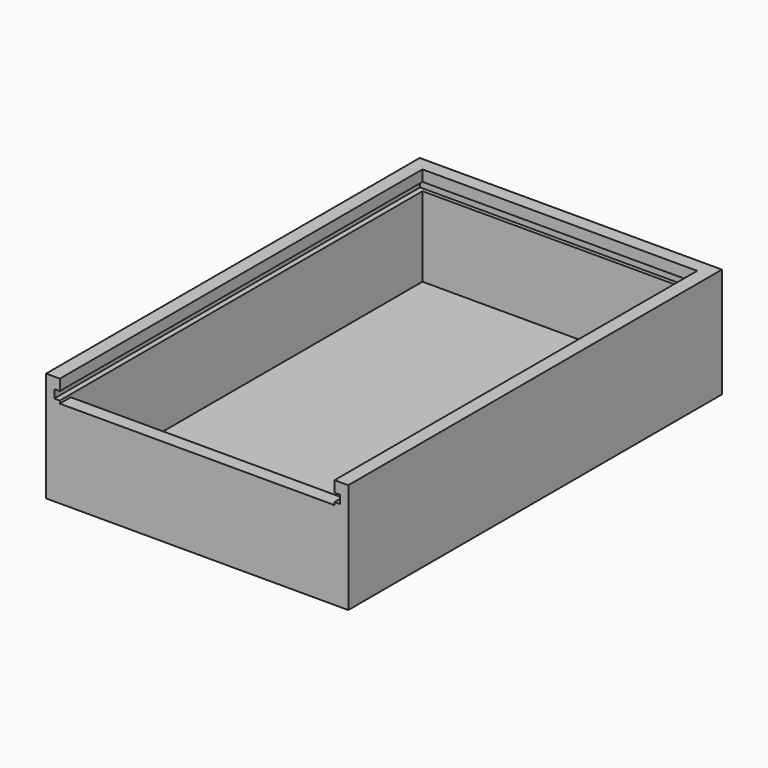
from build123d import *

# Parameters (mm, degrees)
F0_W     = 55
F0_H     = 85
F0_W_2   = 50
F0_H_2   = 80
F1_DEPTH = 2
F2_DEPTH = 20
F3_W     = 50
F3_H     = 4
F4_DEPTH = 82.5
F5_W     = 50
F5_H     = 1.5
F5_W_2   = 1
F6_DEPTH = 83.2


with BuildPart() as f1:
    # F0 (on Top) → F1 (new body)
    with BuildSketch(Plane.XY):
        Rectangle(F0_W, F0_H)
        Rectangle(F0_W_2, F0_H_2, mode=Mode.SUBTRACT)
        Rectangle(F0_W_2, F0_H_2)
    extrude(amount=F1_DEPTH)

    # F0 (on Top) → F2 (join)
    with BuildSketch(Plane.XY):
        Rectangle(F0_W, F0_H)
        Rectangle(F0_W_2, F0_H_2, mode=Mode.SUBTRACT)
    extrude(amount=F2_DEPTH)

    # F3 (on face) → F4 (cut, through all)
    with BuildSketch(Plane.XZ.offset(42.5)):
        with Locations((0, 18)):
            Rectangle(F3_W, F3_H)
    extrude(amount=-F4_DEPTH, mode=Mode.SUBTRACT)

    # F5 (on face) → F6 (cut)
    with BuildSketch(Plane.XZ.offset(42.5)):
        with Locations((0, 17.25)):
            Rectangle(F5_W, F5_H)
        with Locations((-25.5, 17.25)):
            Rectangle(F5_W_2, F5_H)
        with Locations((25.5, 17.25)):
            Rectangle(F5_W_2, F5_H)
    extrude(amount=-F6_DEPTH, mode=Mode.SUBTRACT)


solid = f1.part
